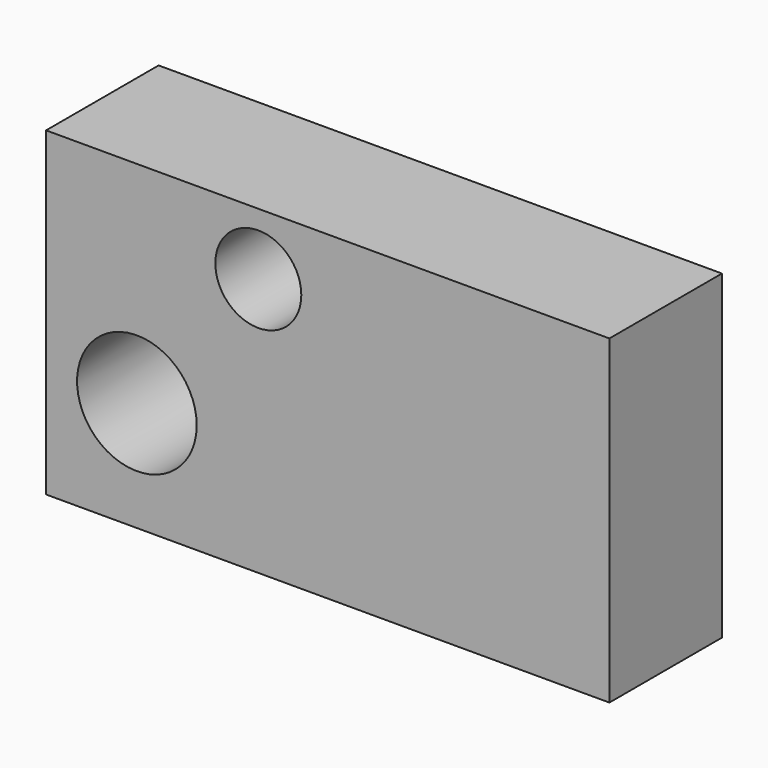
from build123d import *

# Parameters (mm, degrees)
F0_W     = 100.13302
F0_H     = 56.984361
F1_DEPTH = 25
F2_R     = 7.642085
F3_DEPTH = 120.5
F4_R     = 10.630728
F5_DEPTH = 179


with BuildPart() as f1:
    # F0 (on Front) → F1 (new body)
    with BuildSketch(Plane.XZ):
        with Locations((-9.035291, 6.027846)):
            Rectangle(F0_W, F0_H)
    extrude(amount=F1_DEPTH)

    # F2 (on Front) → F3 (cut)
    with BuildSketch(Plane.XZ):
        with Locations((-21.377444, 23.498362)):
            Circle(F2_R)
    extrude(amount=F3_DEPTH, mode=Mode.SUBTRACT)

    # F4 (on Front) → F5 (cut)
    with BuildSketch(Plane.XZ):
        with Locations((-42.96153, -2.936909)):
            Circle(F4_R)
    extrude(amount=F5_DEPTH, mode=Mode.SUBTRACT)


solid = f1.part
